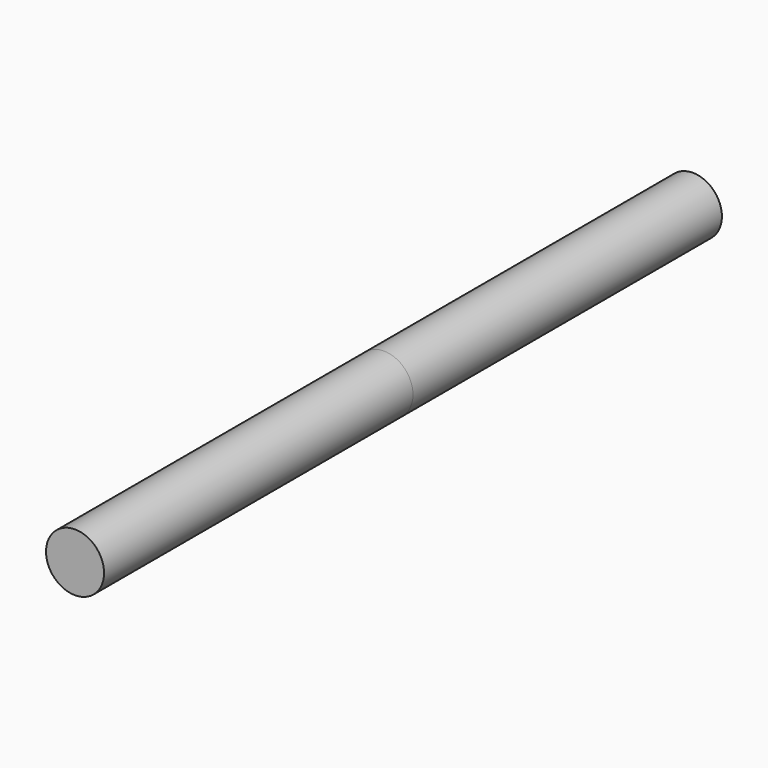
from build123d import *

# Parameters (mm, degrees)
F0_R          = 3.81
F1_DEPTH      = 50.70475
F1_DEPTH_BACK = 50.70475


with BuildPart() as f1:
    # F0 (on Front) → F1 (new body, two sides)
    with BuildSketch(Plane.XZ) as f1_sk:
        Circle(F0_R)
    extrude(amount=-F1_DEPTH)
    extrude(f1_sk.sketch, amount=F1_DEPTH_BACK)


solid = f1.part
